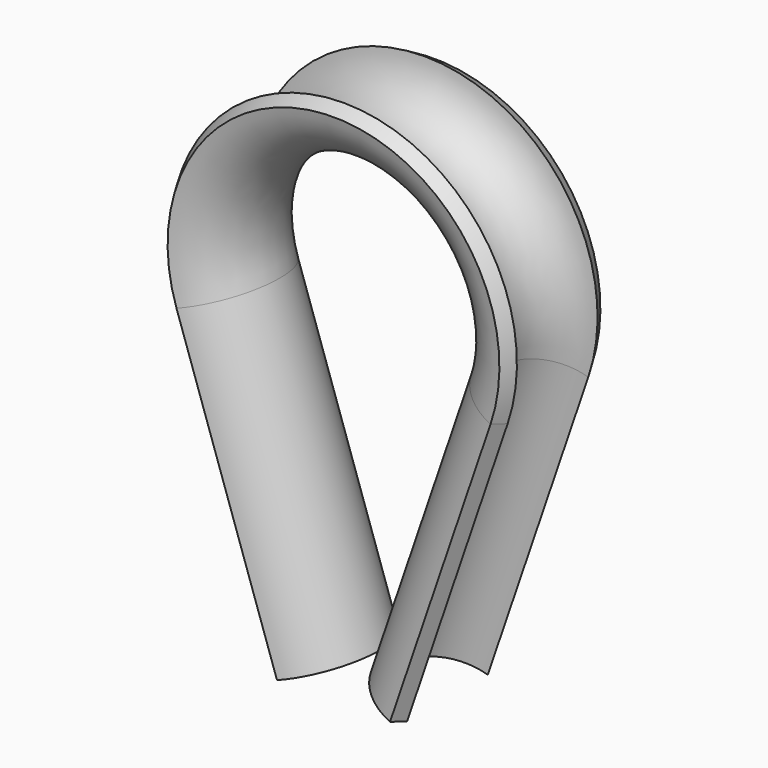
from build123d import *


with BuildPart() as f2:
    # F2: sweep along a path in F0
    with BuildLine(Plane.XZ) as f2_path:
        Line((0.25, 0), (7.0984090905, 20.0773328141))
        ThreePointArc((7.0984090905, 20.0773328141), (0, 29.9986110682), (-7.0984090905, 20.0773328141))
        Line((-7.0984090905, 20.0773328141), (-0.25, 0))
    # F1 (on Right) → F2 (sweep)
    with BuildSketch(Plane.YZ):
        with BuildLine():
            ThreePointArc((-4.3, 33.8), (0, 30), (4.3, 33.8))
            Line((4.3, 33.8), (3.4339745962, 34.3))
            ThreePointArc((3.4339745962, 34.3), (0, 31), (-3.4339745962, 34.3))
            Line((-3.4339745962, 34.3), (-4.3, 33.8))
        make_face()
    sweep(path=f2_path.line)


solid = f2.part
